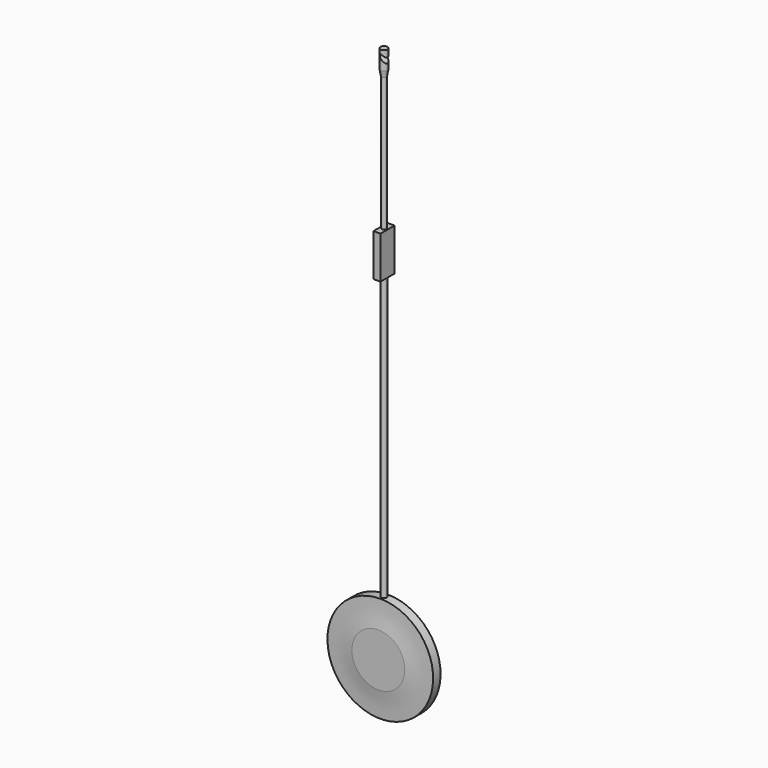
from build123d import *

# Parameters (mm, degrees)
F0_R      = 1.5875
F1_DEPTH  = 11.1125
F2_SIZE2  = 2.8810111644
F2_SIZE   = 0.508
F3_R      = 0.9921875
F4_DEPTH  = 60.325
F5_W      = 3.175
F5_H      = 7.9375
F6_DEPTH  = 19.05
F7_R      = 1.190625
F8_DEPTH  = 127
F10_DEPTH = 3.175
F14_R     = 0.9921875
F15_DEPTH = 6.35


with BuildPart() as f1:
    # F0 (on Top) → F1 (new body)
    with BuildSketch(Plane.XY):
        Circle(F0_R)
    extrude(amount=-F1_DEPTH)

    # F2
    f2_edges = [f1.edges().sort_by_distance(p)[0] for p in [
        (-1.5875, 0, -11.1125),
    ]]
    f2_side = f1.faces().sort_by_distance((0, 0, -11.1125))[0]
    chamfer(f2_edges, length=F2_SIZE, length2=F2_SIZE2, reference=f2_side)

    # F9 (on Front) → F10 (cut, symmetric)
    with BuildSketch(Plane.XZ):
        with BuildLine():
            ThreePointArc((-0.5788363413, -3.3228830071), (0.3132639705, -3.5003327921), (0.8185982042, -2.7440466658))
            ThreePointArc((0.8185982042, -2.7440466658), (0.7562861263, -2.4307826953), (0.5788363413, -2.1652103245))
            ThreePointArc((0.5788363413, -2.1652103245), (-0.5788363413, -2.1652103245), (-0.5788363413, -3.3228830071))
        make_face()
        with BuildLine():
            ThreePointArc((0.5788363413, -2.1652103245), (0.7562861263, -2.4307826953), (0.8185982042, -2.7440466658))
            ThreePointArc((0.8185982042, -2.7440466658), (0.3132639705, -3.5003327921), (-0.5788363413, -3.3228830071))
            Line((-0.5788363413, -3.3228830071), (1.8520261244, -5.7537454728))
            Line((1.8520261244, -5.7537454728), (1.8520261244, -3.4384001076))
            Line((1.8520261244, -3.4384001076), (0.5788363413, -2.1652103245))
        make_face()
    extrude(amount=F10_DEPTH, both=True, mode=Mode.SUBTRACT)


with BuildPart() as f4:
    # F3 (on face) → F4 (new body)
    with BuildSketch(Plane(origin=(0, 0, -11.1125), x_dir=(1, 0, 0), z_dir=(0, 0, -1))):
        Circle(F3_R)
    extrude(amount=F4_DEPTH)


with BuildPart() as f6:
    # F5 (on face) → F6 (new body)
    with BuildSketch(Plane(origin=(0, 0, -71.4375), x_dir=(1, 0, 0), z_dir=(0, 0, -1))):
        Rectangle(F5_W, F5_H)
    extrude(amount=F6_DEPTH)


with BuildPart() as f8:
    # F7 (on face) → F8 (new body)
    with BuildSketch(Plane(origin=(0, 0, -90.4875), x_dir=(1, 0, 0), z_dir=(0, 0, -1))):
        Circle(F7_R)
    extrude(amount=F8_DEPTH)


with BuildPart() as f12:
    # F11 (on Right) → F12 (revolve)
    with BuildSketch(Plane.YZ):
        with BuildLine():
            Line((2.08359375, -217.4875), (-2.08359375, -217.4875))
            ThreePointArc((-2.08359375, -217.4875), (-2.3570160947, -223.4655840715), (-3.175, -229.39375))
            Line((-3.175, -229.39375), (-3.175, -241.3))
            Line((-3.175, -241.3), (3.175, -241.3))
            Line((3.175, -241.3), (3.175, -229.39375))
            ThreePointArc((3.175, -229.39375), (2.3570160947, -223.4655840715), (2.08359375, -217.4875))
        make_face()
    revolve(axis=Axis((0, 0, -241.3), (0, 1, 0)))

    # F14 (on offset) → F15 (cut)
    with BuildSketch(Plane(origin=(0, 0, -217.4875), x_dir=(1, 0, 0), z_dir=(0, 0, -1))):
        Circle(F14_R)
    extrude(amount=F15_DEPTH, mode=Mode.SUBTRACT)


solid = Compound([f1.part, f4.part, f6.part, f8.part, f12.part])
